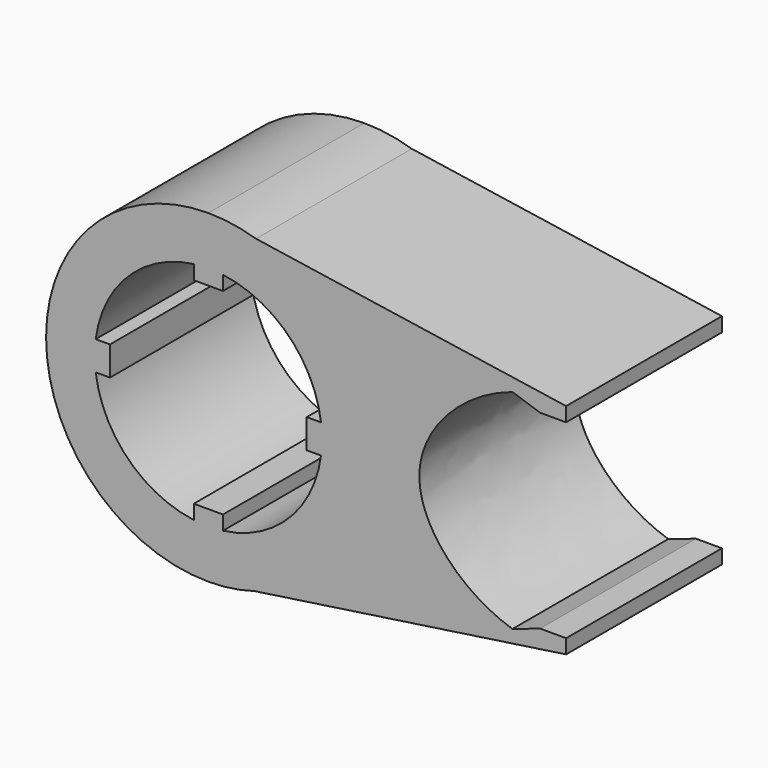
from build123d import *

# Parameters (mm, degrees)
F1_DEPTH = 7.62


with BuildPart() as f1:
    # F0 (on Front) → F1 (new body)
    with BuildSketch(Plane.XZ):
        with BuildLine():
            Line((1.8622589664, 6.0707900262), (0, 6.35))
            ThreePointArc((0, 6.35), (-6.35, 0), (0, -6.35))
            Line((0, -6.35), (1.8187823812, -6.0839568251))
            ThreePointArc((1.8187823812, -6.0839568251), (5.0927285477, -3.7929692775), (6.35, 0))
            ThreePointArc((6.35, 0), (5.1062630385, 3.7747288355), (1.8622589664, 6.0707900262))
        make_face()
        with BuildLine():
            ThreePointArc((4.4081076155, 0.5715), (4.4357673153, 0.2863447651), (4.445, 0))
            ThreePointArc((4.445, 0), (4.4357673153, -0.2863447651), (4.4081076155, -0.5715))
            ThreePointArc((4.4081076155, -0.5715), (3.1430896424, -3.1430896424), (0.5715, -4.4081076155))
            ThreePointArc((0.5715, -4.4081076155), (0, -4.445), (-0.5715, -4.4081076155))
            ThreePointArc((-0.5715, -4.4081076155), (-3.1430896424, -3.1430896424), (-4.4081076155, -0.5715))
            ThreePointArc((-4.4081076155, -0.5715), (-4.445, 0), (-4.4081076155, 0.5715))
            ThreePointArc((-4.4081076155, 0.5715), (-3.1430896424, 3.1430896424), (-0.5715, 4.4081076155))
            ThreePointArc((-0.5715, 4.4081076155), (0, 4.445), (0.5715, 4.4081076155))
            ThreePointArc((0.5715, 4.4081076155), (3.1430896424, 3.1430896424), (4.4081076155, 0.5715))
        make_face(mode=Mode.SUBTRACT)
        with BuildLine():
            ThreePointArc((1.8622589664, 6.0707900262), (0.9415368643, 6.2798095778), (0, 6.35))
            Line((0, 6.35), (1.8622589664, 6.0707900262))
        make_face()
        with BuildLine():
            Line((1.8187823812, -6.0839568251), (0, -6.35))
            ThreePointArc((0, -6.35), (0.9190685939, -6.2831371877), (1.8187823812, -6.0839568251))
        make_face()
        with BuildLine():
            Line((13.9979512441, 4.2512759929), (1.8622589664, 6.0707900262))
            ThreePointArc((1.8622589664, 6.0707900262), (5.1062630385, 3.7747288355), (6.35, 0))
            ThreePointArc((6.35, 0), (5.0927285477, -3.7929692775), (1.8187823812, -6.0839568251))
            Line((1.8187823812, -6.0839568251), (13.9979512441, -4.3024436627))
            add(Edge.make_bspline(
                [(12.9819512441, -4.3278436627), (13.3216856344, -4.3582096926), (13.6625330249, -4.3515071069), (13.9979512441, -4.3024436627)],
                knots=[0.9379354435, 0.9379354435, 0.9379354435, 0.9379354435, 1, 1, 1, 1], degree=3))
            add(Edge.make_bspline(
                [(11.8986046127, -4.1080734588), (12.2530212332, -4.2197633946), (12.616843509, -4.2952097206), (12.9819512441, -4.3278436627)],
                knots=[0.8712355441, 0.8712355441, 0.8712355441, 0.8712355441, 0.9379354435, 0.9379354435, 0.9379354435, 0.9379354435], degree=3))
            add(Edge.make_bspline(
                [(11.8973232208, 4.0530741781), (9.9551383056, 3.4340248692), (6.5706535126, -0.0030113398), (9.9231723965, -3.4855408669), (11.8986046127, -4.1080734588)],
                knots=[0.1307760808, 0.1307760808, 0.1307760808, 0.1307760808, 0.4994664947, 0.8712355441, 0.8712355441, 0.8712355441, 0.8712355441], degree=3))
            add(Edge.make_bspline(
                [(13.9979512441, 4.2512759929), (13.30745774, 4.3548022353), (12.5862245912, 4.2726536393), (11.8973232208, 4.0530741781)],
                knots=[0, 0, 0, 0, 0.1307760808, 0.1307760808, 0.1307760808, 0.1307760808], degree=3))
        make_face()
        with BuildLine():
            Line((13.9979512441, 3.6924759929), (13.9979512441, 4.2512759929))
            add(Edge.make_bspline(
                [(13.9979512441, 4.2512759929), (13.30745774, 4.3548022353), (12.5862245912, 4.2726536393), (11.8973232208, 4.0530741781)],
                knots=[0, 0, 0, 0, 0.1307760808, 0.1307760808, 0.1307760808, 0.1307760808], degree=3))
            Line((11.8973232208, 4.0530741781), (12.9819512441, 3.6924759929))
            Line((12.9819512441, 3.6924759929), (13.9979512441, 3.6924759929))
        make_face()
        with BuildLine():
            add(Edge.make_bspline(
                [(12.9819512441, -4.3278436627), (13.3216856344, -4.3582096926), (13.6625330249, -4.3515071069), (13.9979512441, -4.3024436627)],
                knots=[0.9379354435, 0.9379354435, 0.9379354435, 0.9379354435, 1, 1, 1, 1], degree=3))
            Line((13.9979512441, -4.3024436627), (13.9979512441, -3.7436436627))
            Line((13.9979512441, -3.7436436627), (12.9819512441, -3.7436436627))
            Line((12.9819512441, -3.7436436627), (11.8986046127, -4.1080734588))
            add(Edge.make_bspline(
                [(11.8986046127, -4.1080734588), (12.2530212332, -4.2197633946), (12.616843509, -4.2952097206), (12.9819512441, -4.3278436627)],
                knots=[0.8712355441, 0.8712355441, 0.8712355441, 0.8712355441, 0.9379354435, 0.9379354435, 0.9379354435, 0.9379354435], degree=3))
        make_face()
        with BuildLine():
            ThreePointArc((4.4081076155, -0.5715), (4.4357673153, -0.2863447651), (4.445, 0))
            ThreePointArc((4.445, 0), (4.4357673153, 0.2863447651), (4.4081076155, 0.5715))
            Line((4.4081076155, 0.5715), (3.8493076155, 0.5715))
            Line((3.8493076155, 0.5715), (3.8493076155, -0.5715))
            Line((3.8493076155, -0.5715), (4.4081076155, -0.5715))
        make_face()
        with BuildLine():
            ThreePointArc((-0.5715, -4.4081076155), (0, -4.445), (0.5715, -4.4081076155))
            Line((0.5715, -4.4081076155), (0.5715, -3.8493076155))
            Line((0.5715, -3.8493076155), (-0.5715, -3.8493076155))
            Line((-0.5715, -3.8493076155), (-0.5715, -4.4081076155))
        make_face()
        with BuildLine():
            Line((-3.8493076155, 0.5715), (-4.4081076155, 0.5715))
            ThreePointArc((-4.4081076155, 0.5715), (-4.445, 0), (-4.4081076155, -0.5715))
            Line((-4.4081076155, -0.5715), (-3.8493076155, -0.5715))
            Line((-3.8493076155, -0.5715), (-3.8493076155, 0.5715))
        make_face()
        with BuildLine():
            Line((0.5715, 3.8493076155), (0.5715, 4.4081076155))
            ThreePointArc((0.5715, 4.4081076155), (0, 4.445), (-0.5715, 4.4081076155))
            Line((-0.5715, 4.4081076155), (-0.5715, 3.8493076155))
            Line((-0.5715, 3.8493076155), (0.5715, 3.8493076155))
        make_face()
    extrude(amount=F1_DEPTH)


solid = f1.part
